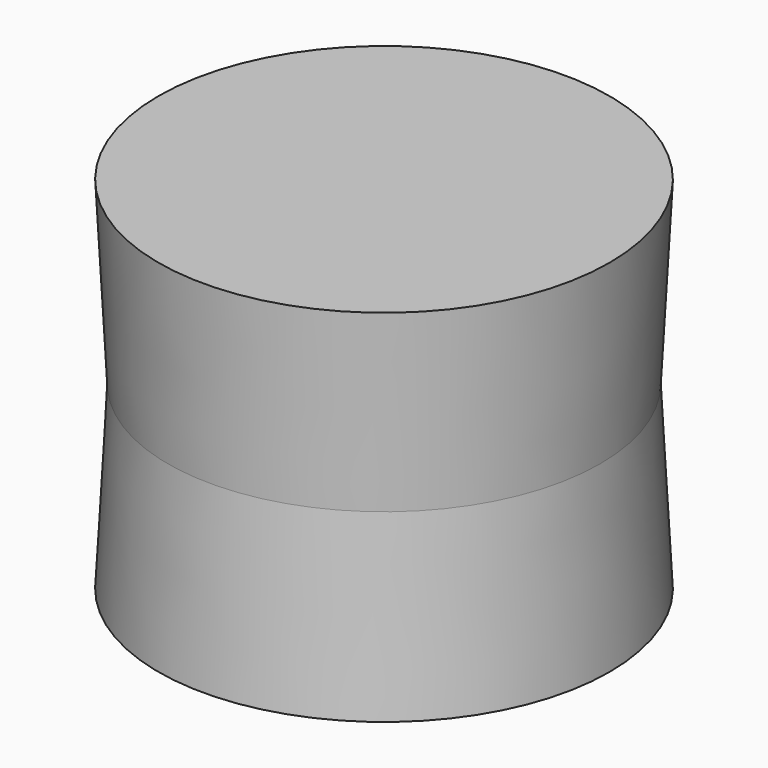
from build123d import *

# Parameters (mm, degrees)
F0_R     = 30
F1_DEPTH = 25
F1_TAPER = -3


with BuildPart() as f1:
    # F0 (on Top) → F1 (new body, symmetric)
    with BuildSketch(Plane.XY):
        Circle(F0_R)
    extrude(amount=F1_DEPTH, both=True, taper=F1_TAPER)


solid = f1.part
